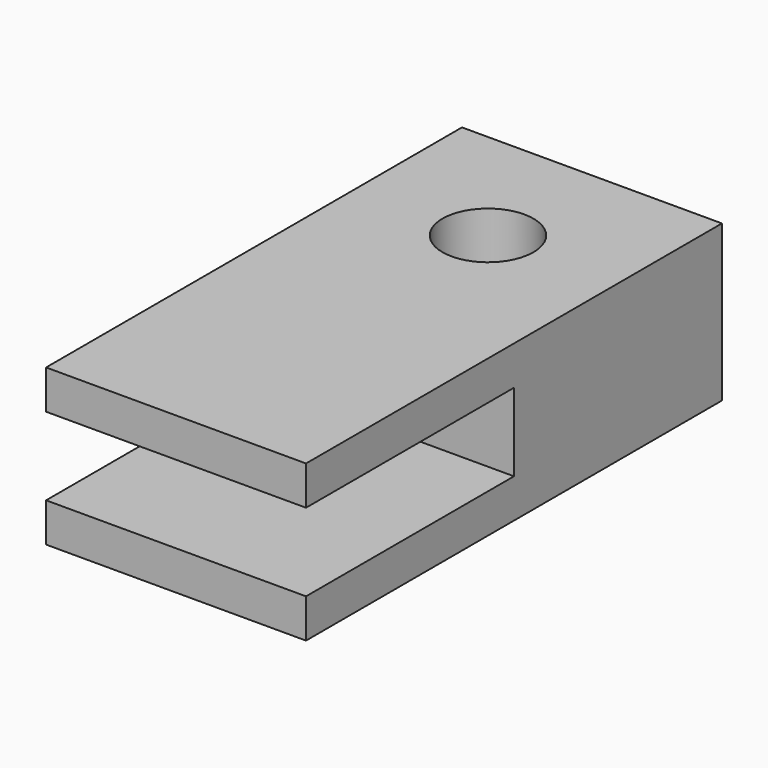
from build123d import *

# Parameters (mm, degrees)
F1_DEPTH = 10
F3_D     = 3.5


with BuildPart() as f1:
    # F0 (on Right) → F1 (new body)
    with BuildSketch(Plane.YZ):
        Polygon((-10, -3.070235), (10, -3.070235), (10, 2.929765), (-10, 2.929765), (-10, 1.429765), (0, 1.429765), (0, -1.570235), (-10, -1.570235), align=None)
    extrude(amount=F1_DEPTH)

    # F3 (through all)
    with Locations(Plane.XY.offset(2.929765)):
        with Locations((5, 5)):
            Hole(F3_D / 2)


solid = f1.part
